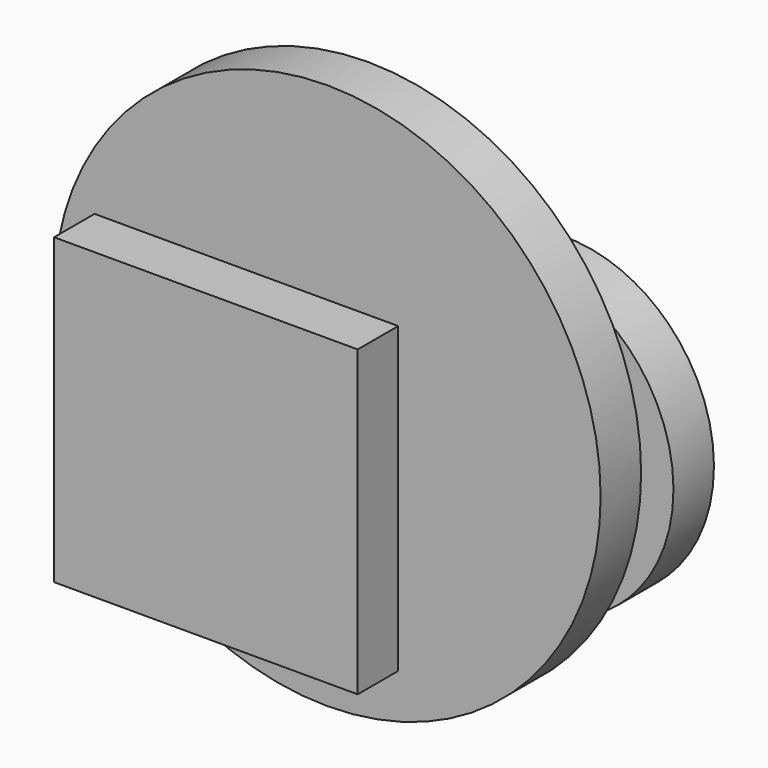
from build123d import *

# Parameters (mm, degrees)
F2_W     = 150
F2_H     = 150
F5_DEPTH = 25.0000003725
F3_R     = 135.0187980494


with BuildPart() as f5:
    # F2 (on offset) → F5 (new body)
    with BuildSketch(Plane.XZ.offset(75)):
        Rectangle(F2_W, F2_H)
    extrude(amount=F5_DEPTH)


with BuildPart() as f5b:
    # F3 (on Front) → F5, piece 2 (new body)
    with BuildSketch(Plane.XZ):
        Circle(F3_R)
    extrude(amount=F5_DEPTH)


with BuildPart() as f5c:
    # F4 (on offset) → F5, piece 3 (new body)
    with BuildSketch(Plane.XZ.offset(-75)):
        with BuildLine():
            add(Edge.make_bspline(
                [(-35.3803634644, -35.2156162262), (-35.3803634644, -166.5215816961), (74.4028091431, -100.8685989611), (184.1859817505, -35.2156162262), (74.4028091431, 30.4373665087), (-35.3803634644, 96.0903492437), (-35.3803634644, -35.2156162262)],
                knots=[4.7123889804, 4.7123889804, 4.7123889804, 6.8067840828, 6.8067840828, 8.9011791852, 8.9011791852, 10.9955742876, 10.9955742876, 10.9955742876], degree=2, weights=[1, 0.5, 1, 0.5, 1, 0.5, 1]))
        make_face()
    extrude(amount=F5_DEPTH)


solid = Compound([f5.part, f5b.part, f5c.part])
